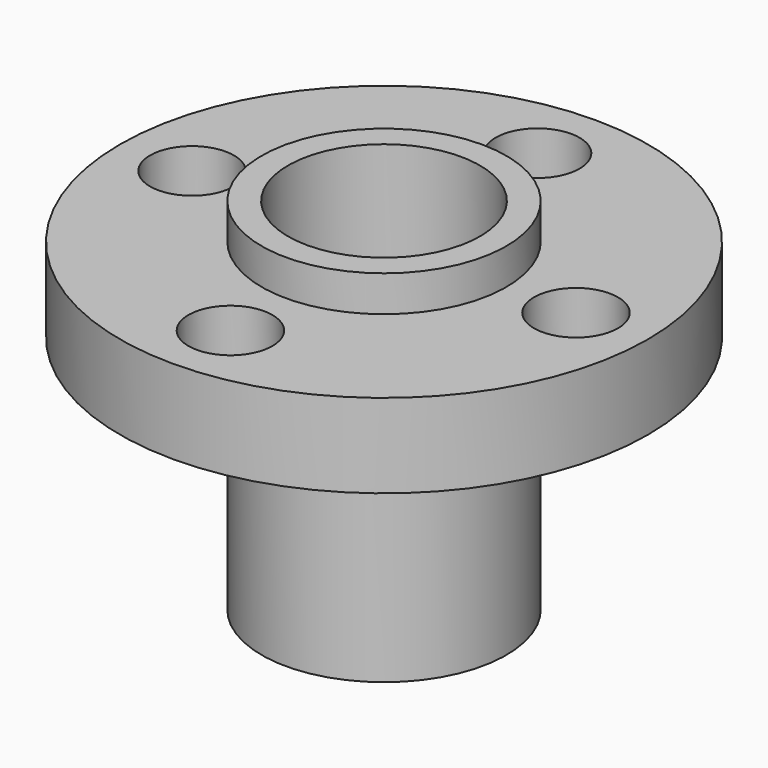
from build123d import *

# Parameters (mm, degrees)
SKETCH151_R           = 4
SKETCH151_R_2         = 1.75
POCKET057_DEPTH       = 84.080664
POLARPATTERN010_COUNT = 4


with BuildPart() as part:
    # Sketch150 → Revolution007 (revolve)
    with BuildSketch(Plane.YZ):
        Polygon((0, 0), (0, 15), (5.1, 15), (5.1, 13.5), (11, 13.5), (11, 10), (5.1, 10), (5.1, 0), align=None)
    revolve(axis=Axis((0, 0, 0), (0, 0, 1)))

    # Sketch151 (on Face1 of Revolution007) → Pocket057 (cut, through all)
    with BuildSketch(Plane(origin=(0, 0, 15), x_dir=(0, -1, 0), z_dir=(0, 0, 1))):
        Circle(SKETCH151_R)
        with Locations((8, 0)):
            Circle(SKETCH151_R_2)
    pocket057 = extrude(amount=-POCKET057_DEPTH, mode=Mode.SUBTRACT)

    # PolarPattern010: Pocket057 ×4 about axis
    polarpattern010_axis = Axis((0, 0, 15), (0, 0, 1))
    for i in range(1, POLARPATTERN010_COUNT):
        add(pocket057.rotate(polarpattern010_axis, i * 360 / POLARPATTERN010_COUNT), mode=Mode.SUBTRACT)


solid = part.part
